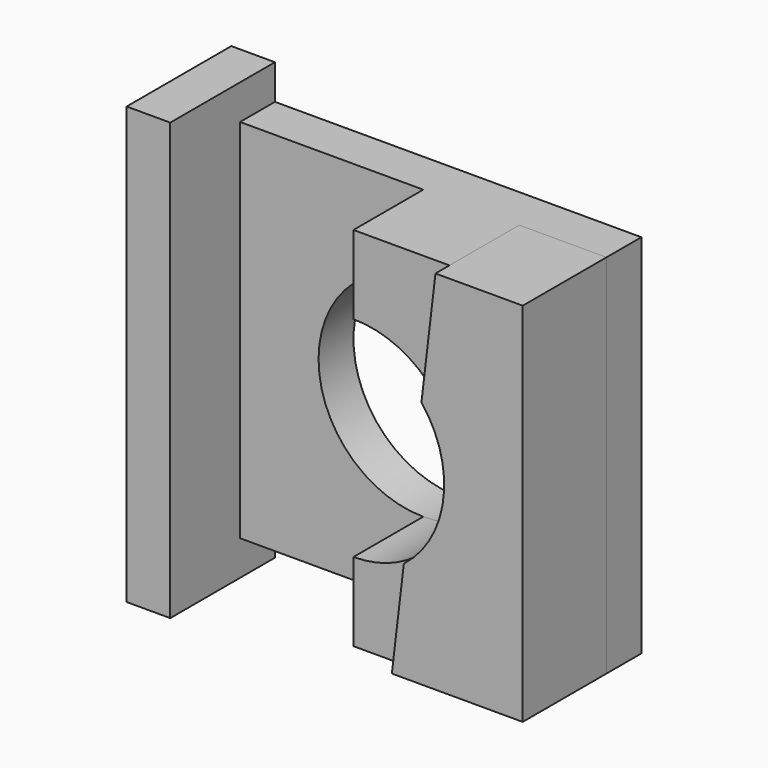
from build123d import *

# Parameters (mm, degrees)
F0_W     = 42
F0_H     = 42
F0_R     = 12
F1_DEPTH = 5
F2_W     = 15
F2_H     = 50
F3_DEPTH = 5
F5_DEPTH = 10
F6_DEPTH = 12


with BuildPart() as f1:
    # F0 (on Front) → F1 (new body)
    with BuildSketch(Plane.XZ):
        Rectangle(F0_W, F0_H)
        Circle(F0_R, mode=Mode.SUBTRACT)
    extrude(amount=F1_DEPTH)

    # F2 (on face) → F3 (join)
    with BuildSketch(Plane(origin=(-21, 0, 0), x_dir=(0, -1, 0), z_dir=(-1, 0, 0))):
        with Locations((7.5, 0)):
            Rectangle(F2_W, F2_H)
    extrude(amount=F3_DEPTH)

    # F4 (on face) → F5 (join)
    with BuildSketch(Plane.XZ.offset(5)):
        with BuildLine():
            Line((9.3895657925, 7.4723526569), (11, 21))
            Line((11, 21), (0, 21))
            Line((0, 21), (0, 12))
            ThreePointArc((0, 12), (5.2120901814, 10.8089831132), (9.3895657925, 7.4723526569))
        make_face()
        with BuildLine():
            Line((6, -21), (7.3728713232, -9.4678808849))
            ThreePointArc((7.3728713232, -9.4678808849), (3.8977833047, -11.3493297295), (0, -12))
            Line((0, -12), (0, -21))
            Line((0, -21), (6, -21))
        make_face()
    extrude(amount=F5_DEPTH)


with BuildPart() as f6:
    # F6 (new): a face of the model
    f6_faces = [f1.part.faces().sort_by_distance(p)[0] for p in [
        (15.0870554418, -5, -1.4200647771),
    ]]
    extrude(f6_faces, amount=F6_DEPTH)


solid = Compound([f1.part, f6.part])
